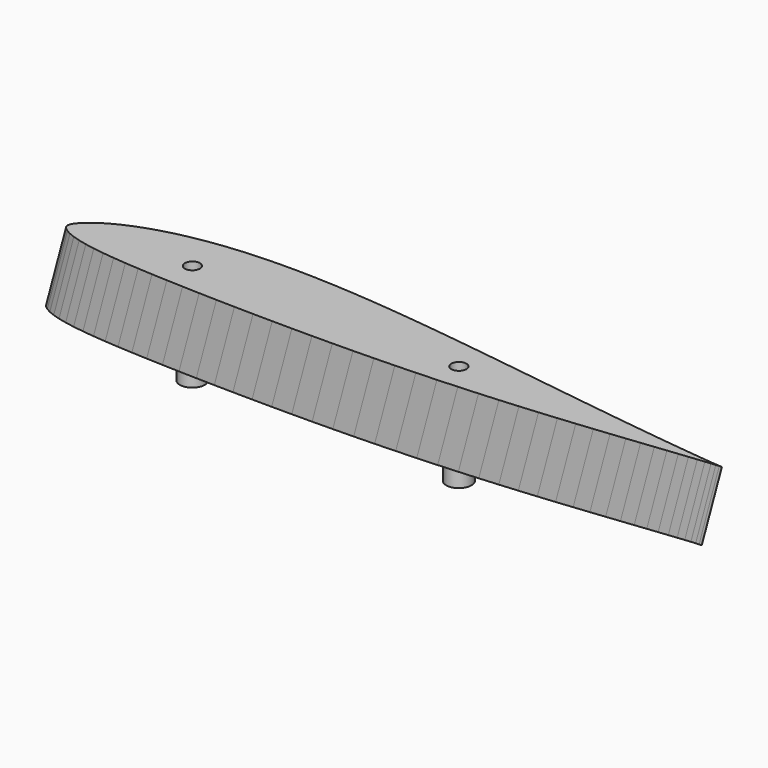
from build123d import *

# Parameters (mm, degrees)
PAD_DEPTH    = 5
SKETCH003_R  = 2.5
PAD001_DEPTH = 15
SKETCH004_R  = 1.5
POCKET_DEPTH = 10


with BuildPart() as fusoliera:
    # Sketch → Pad (new body, symmetric)
    with BuildSketch(Plane.XY):
        with BuildLine():
            Line((290, 0), (289.7129, 0.0174))
            Line((289.7129, 0.0174), (288.8574, 0.0696))
            Line((288.8574, 0.0696), (287.4306, 0.1769))
            Line((287.4306, 0.1769), (285.4441, 0.3509))
            Line((285.4441, 0.3509), (282.9037, 0.6003))
            Line((282.9037, 0.6003), (279.8181, 0.9251))
            Line((279.8181, 0.9251), (276.1989, 1.3224))
            Line((276.1989, 1.3224), (272.0635, 1.7893))
            Line((272.0635, 1.7893), (267.4264, 2.3229))
            Line((267.4264, 2.3229), (262.3079, 2.9261))
            Line((262.3079, 2.9261), (256.7254, 3.6076))
            Line((256.7254, 3.6076), (250.6992, 4.3587))
            Line((250.6992, 4.3587), (244.2583, 5.1852))
            Line((244.2583, 5.1852), (237.4259, 6.0784))
            Line((237.4259, 6.0784), (230.2281, 7.0383))
            Line((230.2281, 7.0383), (230.2281, 40.028069))
            Line((230.2281, 40.028069), (201.90651, 39.515951))
            ThreePointArc((172.217343, 14.637652), (187.660006, 26.363067), (201.90651, 39.515951))
            Line((172.217343, 14.637652), (163.1743, 16.2081))
            Line((163.1743, 16.2081), (154.106, 17.371))
            Line((154.106, 17.371), (145, 18.4817))
            Line((145, 18.4817), (135.8969, 19.5199))
            Line((135.8969, 19.5199), (126.8257, 20.4682))
            Line((126.8257, 20.4682), (117.8299, 21.3034))
            Line((117.8299, 21.3034), (108.9414, 22.0023))
            Line((108.9414, 22.0023), (100.1921, 22.5446))
            Line((100.1921, 22.5446), (91.6226, 22.9129))
            Line((91.6226, 22.9129), (83.2619, 23.0898))
            Line((83.2619, 23.0898), (75.1448, 23.0608))
            Line((75.1448, 23.0608), (67.3061, 22.8201))
            Line((67.3061, 22.8201), (59.7719, 22.3561))
            Line((59.7719, 22.3561), (52.5741, 21.6717))
            Line((52.5741, 21.6717), (45.7417, 20.7698))
            Line((45.7417, 20.7698), (39.3008, 19.662))
            Line((39.3008, 19.662), (33.2746, 18.3628))
            Line((33.2746, 18.3628), (27.6921, 16.8896))
            Line((27.6921, 16.8896), (22.5736, 15.2714))
            Line((22.5736, 15.2714), (17.9365, 13.5314))
            Line((17.9365, 13.5314), (13.8011, 11.7015))
            Line((13.8011, 11.7015), (10.1819, 9.8165))
            Line((10.1819, 9.8165), (7.0963, 7.9112))
            Line((7.0963, 7.9112), (4.5559, 6.0378))
            Line((4.5559, 6.0378), (2.5694, 4.263))
            Line((2.5694, 4.263), (1.1426, 2.6535))
            Line((1.1426, 2.6535), (0.2871, 1.2383))
            Line((0.2871, 1.2383), (0, 0))
            Line((0, 0), (0.2871, -1.131))
            Line((0.2871, -1.131), (1.1426, -2.2243))
            Line((1.1426, -2.2243), (2.5694, -3.3176))
            Line((2.5694, -3.3176), (4.5559, -4.3964))
            Line((4.5559, -4.3964), (7.0963, -5.4201))
            Line((38.675534, -31.593528), (7.0963, -5.4201))
            Line((38.675534, -31.593528), (232.520951, -31.593528))
            Line((232.520951, -31.593528), (244.2583, -4.8227))
            Line((244.2583, -4.8227), (250.6992, -4.1267))
            Line((250.6992, -4.1267), (256.7254, -3.4626))
            Line((256.7254, -3.4626), (262.3079, -2.842))
            Line((262.3079, -2.842), (267.4264, -2.2765))
            Line((267.4264, -2.2765), (272.0635, -1.7661))
            Line((272.0635, -1.7661), (276.1989, -1.3137))
            Line((276.1989, -1.3137), (279.8181, -0.9222))
            Line((279.8181, -0.9222), (282.9037, -0.5974))
            Line((282.9037, -0.5974), (285.4441, -0.3509))
            Line((285.4441, -0.3509), (287.4306, -0.1769))
            Line((287.4306, -0.1769), (288.8574, -0.0696))
            Line((288.8574, -0.0696), (289.7129, -0.0174))
            Line((289.7129, -0.0174), (290, 0))
        make_face()
    extrude(amount=PAD_DEPTH, both=True)


with BuildPart() as loft_body:
    # Sketch001 → Loft section 0
    with BuildSketch(Plane.XY):
        Polygon((290, 0), (289.7129, 0.0174), (288.8574, 0.0696), (287.4306, 0.1769), (285.4441, 0.3509), (282.9037, 0.6003), (279.8181, 0.9251), (276.1989, 1.3224), (272.0635, 1.7893), (267.4264, 2.3229), (262.3079, 2.9261), (256.7254, 3.6076), (250.6992, 4.3587), (244.2583, 5.1852), (237.4259, 6.0784), (230.2281, 7.0383), (222.6939, 8.0591), (214.8552, 9.135), (206.7381, 10.2573), (198.3774, 11.4173), (189.8079, 12.6034), (181.0615, 13.8098), (172.1701, 15.0162), (163.1743, 16.2081), (154.106, 17.371), (145, 18.4817), (135.8969, 19.5199), (126.8257, 20.4682), (117.8299, 21.3034), (108.9414, 22.0023), (100.1921, 22.5446), (91.6226, 22.9129), (83.2619, 23.0898), (75.1448, 23.0608), (67.3061, 22.8201), (59.7719, 22.3561), (52.5741, 21.6717), (45.7417, 20.7698), (39.3008, 19.662), (33.2746, 18.3628), (27.6921, 16.8896), (22.5736, 15.2714), (17.9365, 13.5314), (13.8011, 11.7015), (10.1819, 9.8165), (7.0963, 7.9112), (4.5559, 6.0378), (2.5694, 4.263), (1.1426, 2.6535), (0.2871, 1.2383), (0, 0), (0.2871, -1.131), (1.1426, -2.2243), (2.5694, -3.3176), (4.5559, -4.3964), (7.0963, -5.4201), (10.1819, -6.3568), (13.8011, -7.1949), (17.9365, -7.9344), (22.5736, -8.5811), (27.6921, -9.1437), (33.2746, -9.6367), (39.3008, -10.063), (45.7417, -10.4371), (52.5741, -10.7619), (59.7719, -11.0461), (67.3061, -11.2926), (75.1448, -11.5043), (83.2619, -11.6812), (91.6226, -11.8175), (100.1921, -11.9161), (108.9414, -11.9683), (117.8299, -11.9712), (126.8257, -11.9161), (135.8969, -11.8001), (145, -11.6174), (154.106, -11.3651), (163.1743, -11.0374), (172.1701, -10.6401), (181.0615, -10.1732), (189.8079, -9.6396), (198.3774, -9.0451), (206.7381, -8.4013), (214.8552, -7.7169), (222.6939, -7.0064), (230.2281, -6.2756), (237.4259, -5.5448), (244.2583, -4.8227), (250.6992, -4.1267), (256.7254, -3.4626), (262.3079, -2.842), (267.4264, -2.2765), (272.0635, -1.7661), (276.1989, -1.3137), (279.8181, -0.9222), (282.9037, -0.5974), (285.4441, -0.3509), (287.4306, -0.1769), (288.8574, -0.0696), (289.7129, -0.0174), align=None)
    # Sketch002 → Loft section 1
    with BuildSketch(Plane(origin=(260, 0, 430), x_dir=(1, 0, 0), z_dir=(0, 0, 1))):
        Polygon((120, 0), (119.8812, 0.0072), (119.5272, 0.0288), (118.9368, 0.0732), (118.1148, 0.1452), (117.0636, 0.2484), (115.7868, 0.3828), (114.2892, 0.5472), (112.578, 0.7404), (110.6592, 0.9612), (108.5412, 1.2108), (106.2312, 1.4928), (103.7376, 1.8036), (101.0724, 2.1456), (98.2452, 2.5152), (95.2668, 2.9124), (92.1492, 3.3348), (88.9056, 3.78), (85.5468, 4.2444), (82.0872, 4.7244), (78.5412, 5.2152), (74.922, 5.7144), (71.2428, 6.2136), (67.5204, 6.7068), (63.768, 7.188), (60, 7.6476), (56.2332, 8.0772), (52.4796, 8.4696), (48.7572, 8.8152), (45.0792, 9.1044), (41.4588, 9.3288), (37.9128, 9.4812), (34.4532, 9.5544), (31.0944, 9.5424), (27.8508, 9.4428), (24.7332, 9.2508), (21.7548, 8.9676), (18.9276, 8.5944), (16.2624, 8.136), (13.7688, 7.5984), (11.4588, 6.9888), (9.3408, 6.3192), (7.422, 5.5992), (5.7108, 4.842), (4.2132, 4.062), (2.9364, 3.2736), (1.8852, 2.4984), (1.0632, 1.764), (0.4728, 1.098), (0.1188, 0.5124), (0, 0), (0.1188, -0.468), (0.4728, -0.9204), (1.0632, -1.3728), (1.8852, -1.8192), (2.9364, -2.2428), (4.2132, -2.6304), (5.7108, -2.9772), (7.422, -3.2832), (9.3408, -3.5508), (11.4588, -3.7836), (13.7688, -3.9876), (16.2624, -4.164), (18.9276, -4.3188), (21.7548, -4.4532), (24.7332, -4.5708), (27.8508, -4.6728), (31.0944, -4.7604), (34.4532, -4.8336), (37.9128, -4.89), (41.4588, -4.9308), (45.0792, -4.9524), (48.7572, -4.9536), (52.4796, -4.9308), (56.2332, -4.8828), (60, -4.8072), (63.768, -4.7028), (67.5204, -4.5672), (71.2428, -4.4028), (74.922, -4.2096), (78.5412, -3.9888), (82.0872, -3.7428), (85.5468, -3.4764), (88.9056, -3.1932), (92.1492, -2.8992), (95.2668, -2.5968), (98.2452, -2.2944), (101.0724, -1.9956), (103.7376, -1.7076), (106.2312, -1.4328), (108.5412, -1.176), (110.6592, -0.942), (112.578, -0.7308), (114.2892, -0.5436), (115.7868, -0.3816), (117.0636, -0.2472), (118.1148, -0.1452), (118.9368, -0.0732), (119.5272, -0.0288), (119.8812, -0.0072), align=None)
    loft()


with BuildPart() as loft_body_1:
    # Loft placement: moved
    add(loft_body.part.moved(Location((0, 0, 5))))


with BuildPart() as aereo:
    # Part__Mirroring: instance of Loft body
    add(loft_body_1.part.mirror(Plane(origin=(170, 5.5593, 0), x_dir=(0, 1, 0), z_dir=(0, 0, 1))))

    # Fusion001: union Loft body
    add(loft_body_1.part)

    # Fusion002: union fusoliera
    add(fusoliera.part)


with BuildPart() as obj1:
    # DWire → Loft001 section 0
    with BuildSketch(Plane(origin=(256, 0, 440), x_dir=(1, 0, 0), z_dir=(0, 0, 1))):
        Polygon((130, 0), (129.8713, 0.0078), (129.4878, 0.0312), (128.8482, 0.0793), (127.9577, 0.1573), (126.8189, 0.2691), (125.4357, 0.4147), (123.8133, 0.5928), (121.9595, 0.8021), (119.8808, 1.0413), (117.5863, 1.3117), (115.0838, 1.6172), (112.3824, 1.9539), (109.4951, 2.3244), (106.4323, 2.7248), (103.2057, 3.1551), (99.8283, 3.6127), (96.3144, 4.095), (92.6757, 4.5981), (88.9278, 5.1181), (85.0863, 5.6498), (81.1655, 6.1906), (77.1797, 6.7314), (73.1471, 7.2657), (69.082, 7.787), (65, 8.2849), (60.9193, 8.7503), (56.8529, 9.1754), (52.8203, 9.5498), (48.8358, 9.8631), (44.9137, 10.1062), (41.0722, 10.2713), (37.3243, 10.3506), (33.6856, 10.3376), (30.1717, 10.2297), (26.7943, 10.0217), (23.5677, 9.7149), (20.5049, 9.3106), (17.6176, 8.814), (14.9162, 8.2316), (12.4137, 7.5712), (10.1192, 6.8458), (8.0405, 6.0658), (6.1867, 5.2455), (4.5643, 4.4005), (3.1811, 3.5464), (2.0423, 2.7066), (1.1518, 1.911), (0.5122, 1.1895), (0.1287, 0.5551), (0, 0), (0.1287, -0.507), (0.5122, -0.9971), (1.1518, -1.4872), (2.0423, -1.9708), (3.1811, -2.4297), (4.5643, -2.8496), (6.1867, -3.2253), (8.0405, -3.5568), (10.1192, -3.8467), (12.4137, -4.0989), (14.9162, -4.3199), (17.6176, -4.511), (20.5049, -4.6787), (23.5677, -4.8243), (26.7943, -4.9517), (30.1717, -5.0622), (33.6856, -5.1571), (37.3243, -5.2364), (41.0722, -5.2975), (44.9137, -5.3417), (48.8358, -5.3651), (52.8203, -5.3664), (56.8529, -5.3417), (60.9193, -5.2897), (65, -5.2078), (69.082, -5.0947), (73.1471, -4.9478), (77.1797, -4.7697), (81.1655, -4.5604), (85.0863, -4.3212), (88.9278, -4.0547), (92.6757, -3.7661), (96.3144, -3.4593), (99.8283, -3.1408), (103.2057, -2.8132), (106.4323, -2.4856), (109.4951, -2.1619), (112.3824, -1.8499), (115.0838, -1.5522), (117.5863, -1.274), (119.8808, -1.0205), (121.9595, -0.7917), (123.8133, -0.5889), (125.4357, -0.4134), (126.8189, -0.2678), (127.9577, -0.1573), (128.8482, -0.0793), (129.4878, -0.0312), (129.8713, -0.0078), align=None)
    # DWire001 → Loft001 section 1
    with BuildSketch(Plane(origin=(252, 0, 425), x_dir=(1, 0, 0), z_dir=(0, 0, 1))):
        Polygon((130, 0), (129.8713, 0.0078), (129.4878, 0.0312), (128.8482, 0.0793), (127.9577, 0.1573), (126.8189, 0.2691), (125.4357, 0.4147), (123.8133, 0.5928), (121.9595, 0.8021), (119.8808, 1.0413), (117.5863, 1.3117), (115.0838, 1.6172), (112.3824, 1.9539), (109.4951, 2.3244), (106.4323, 2.7248), (103.2057, 3.1551), (99.8283, 3.6127), (96.3144, 4.095), (92.6757, 4.5981), (88.9278, 5.1181), (85.0863, 5.6498), (81.1655, 6.1906), (77.1797, 6.7314), (73.1471, 7.2657), (69.082, 7.787), (65, 8.2849), (60.9193, 8.7503), (56.8529, 9.1754), (52.8203, 9.5498), (48.8358, 9.8631), (44.9137, 10.1062), (41.0722, 10.2713), (37.3243, 10.3506), (33.6856, 10.3376), (30.1717, 10.2297), (26.7943, 10.0217), (23.5677, 9.7149), (20.5049, 9.3106), (17.6176, 8.814), (14.9162, 8.2316), (12.4137, 7.5712), (10.1192, 6.8458), (8.0405, 6.0658), (6.1867, 5.2455), (4.5643, 4.4005), (3.1811, 3.5464), (2.0423, 2.7066), (1.1518, 1.911), (0.5122, 1.1895), (0.1287, 0.5551), (0, 0), (0.1287, -0.507), (0.5122, -0.9971), (1.1518, -1.4872), (2.0423, -1.9708), (3.1811, -2.4297), (4.5643, -2.8496), (6.1867, -3.2253), (8.0405, -3.5568), (10.1192, -3.8467), (12.4137, -4.0989), (14.9162, -4.3199), (17.6176, -4.511), (20.5049, -4.6787), (23.5677, -4.8243), (26.7943, -4.9517), (30.1717, -5.0622), (33.6856, -5.1571), (37.3243, -5.2364), (41.0722, -5.2975), (44.9137, -5.3417), (48.8358, -5.3651), (52.8203, -5.3664), (56.8529, -5.3417), (60.9193, -5.2897), (65, -5.2078), (69.082, -5.0947), (73.1471, -4.9478), (77.1797, -4.7697), (81.1655, -4.5604), (85.0863, -4.3212), (88.9278, -4.0547), (92.6757, -3.7661), (96.3144, -3.4593), (99.8283, -3.1408), (103.2057, -2.8132), (106.4323, -2.4856), (109.4951, -2.1619), (112.3824, -1.8499), (115.0838, -1.5522), (117.5863, -1.274), (119.8808, -1.0205), (121.9595, -0.7917), (123.8133, -0.5889), (125.4357, -0.4134), (126.8189, -0.2678), (127.9577, -0.1573), (128.8482, -0.0793), (129.4878, -0.0312), (129.8713, -0.0078), align=None)
    loft()

    # Cut: cut aereo
    add(aereo.part, mode=Mode.SUBTRACT)

    # Sketch003 → Pad001 (new body)
    with BuildSketch(Plane(origin=(0, 0, 435), x_dir=(1, 0, 0), z_dir=(0, 0, -1))):
        with Locations((279.64621, -1.427913)):
            Circle(SKETCH003_R)
        with Locations((333.025696, -0.885069)):
            Circle(SKETCH003_R)
    extrude(amount=PAD001_DEPTH)

    # Sketch004 → Pocket (cut)
    with BuildSketch(Plane.XY.offset(440)):
        with Locations((279.64621, 1.427913)):
            Circle(SKETCH004_R)
        with Locations((333.025696, 0.885069)):
            Circle(SKETCH004_R)
    extrude(amount=-POCKET_DEPTH, mode=Mode.SUBTRACT)


solid = obj1.part
